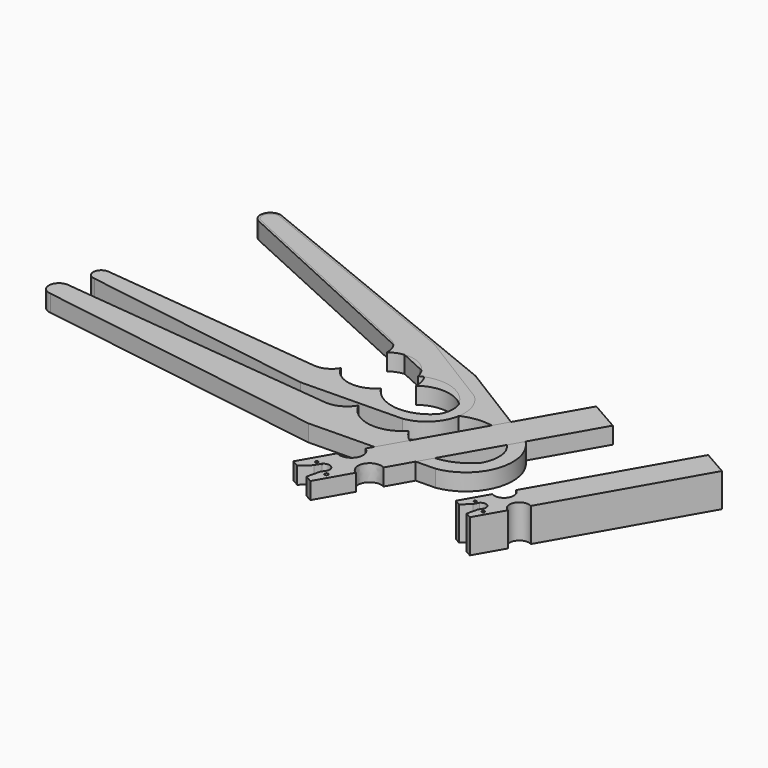
from build123d import *

# Parameters (mm, degrees)
EXTRUDE001_DEPTH = 5
SKETCH001_R      = 0.376184
SKETCH001_R_2    = 0.434762
EXTRUDE_DEPTH    = 10
EXTRUDE002_DEPTH = 5
EXTRUDE003_DEPTH = 5


with BuildPart() as extrude001:
    # Sketch → Extrude001 (new body)
    with BuildSketch(Plane.XY):
        with BuildLine():
            Line((-109.597702, 14.773314), (-26.475611, 5.977473))
            ThreePointArc((-26.475611, 5.977473), (-22.315419, 6.691359), (-19.245836, 9.588683))
            ThreePointArc((-19.245836, 9.588683), (-11.417045, 3.728369), (-2.153575, 6.86228))
            ThreePointArc((-2.153575, 6.86228), (8.987764, 0.018026), (21.108057, 4.924321))
            ThreePointArc((21.108057, 4.924321), (22.334293, 8.844617), (21.856391, 12.924321))
            ThreePointArc((21.856391, 12.924321), (13.070619, 20.600891), (1.441613, 19.659745))
            ThreePointArc((1.441613, 19.659745), (-5.154934, 27.098584), (-14.998553, 25.700758))
            ThreePointArc((-14.998553, 25.700758), (-16.220959, 30.179706), (-19.896863, 33.015721))
            Line((-95.278091, 67.530898), (-19.896863, 33.015721))
            ThreePointArc((-93.006126, 73.071233), (-96.742934, 71.367605), (-95.278091, 67.530898))
            Line((-7.306596, 38.175885), (-93.006126, 73.071233))
            Line((-7.306596, 38.175885), (22.025859, 20.040189))
            ThreePointArc((14.579966, -4.084797), (25.896694, 5.633965), (22.025859, 20.040189))
            Line((-22.736025, -4.727048), (14.579966, -4.084797))
            Line((-110.331933, 8.831639), (-22.736025, -4.727048))
            ThreePointArc((-109.597702, 14.773314), (-113.139046, 12.194726), (-110.331933, 8.831639))
        make_face()
    extrude(amount=EXTRUDE001_DEPTH)


with BuildPart() as extrude_body:
    # Sketch001 (on Extrude) → Extrude (new body)
    with BuildSketch(Plane.XY):
        with BuildLine():
            Line((18.785556, 33.365864), (26.305947, 29.064344))
            Line((26.305947, 29.064344), (2.608742, -12.365722))
            ThreePointArc((2.608742, -12.365722), (-1.331695, -13.502804), (-0.194613, -17.443241))
            Line((-0.194613, -17.443241), (-4.904631, -25.677814))
            Line((-4.904631, -25.677814), (-6.640704, -24.684813))
            Line((-5.889158, -21.514642), (-6.640704, -24.684813))
            Line((-5.889158, -21.514642), (-5.019301, -20.112555))
            ThreePointArc((-5.019301, -20.112555), (-5.752398, -18.272471), (-7.70587, -18.600018))
            Line((-8.504033, -20.044122), (-7.70587, -18.600018))
            Line((-8.504033, -20.044122), (-10.889342, -22.24369))
            Line((-12.625415, -21.25069), (-10.889342, -22.24369))
            Line((-8.091479, -13.323964), (-12.625415, -21.25069))
            ThreePointArc((-8.091479, -13.323964), (-4.108005, -12.348334), (-5.083616, -8.364855))
            Line((18.785556, 33.365864), (-5.083616, -8.364855))
        make_face()
        with Locations((-8.938312, -18.659267)):
            Circle(SKETCH001_R, mode=Mode.SUBTRACT)
        with Locations((-4.245621, -21.504513)):
            Circle(SKETCH001_R_2, mode=Mode.SUBTRACT)
    extrude(amount=EXTRUDE_DEPTH)


with BuildPart() as extrude_body_1:
    # Extrude placement: moved
    add(extrude_body.part.moved(Location((47, 0, 0))))


with BuildPart() as extrude002:
    # Clone2D → Extrude002 (new body)
    with BuildSketch(Plane(origin=(-18.793451, 14.045872, 0), x_dir=(1, 0, 0), z_dir=(0, 0, 1))):
        with BuildLine():
            add(Edge.make_bspline(
                [(-87.678162, 11.818651), (-21.180489, 4.781978)],
                knots=[0, 0, 83.586176, 83.586176], degree=1))
            add(Edge.make_bspline(
                [(-21.180489, 4.781978), (-17.328528, 4.304406), (-15.396669, 7.670947)],
                knots=[4.589037, 4.589037, 4.589037, 5.762223, 5.762223, 5.762223], degree=2, weights=[1, 0.832831, 1]))
            add(Edge.make_bspline(
                [(-15.396669, 7.670947), (-10.147025, -3.370403), (-1.72286, 5.489824)],
                knots=[3.585411, 3.585411, 3.585411, 5.52301, 5.52301, 5.52301], degree=2, weights=[1, 0.566289, 1]))
            add(Edge.make_bspline(
                [(-1.72286, 5.489824), (6.530321, -7.906343), (16.886445, 3.939457)],
                knots=[3.693756, 3.693756, 3.693756, 5.564783, 5.564783, 5.564783], degree=2, weights=[1, 0.593405, 1]))
            add(Edge.make_bspline(
                [(16.886445, 3.939457), (18.613892, 7.005869), (17.485113, 10.339457)],
                knots=[5.770154, 5.770154, 5.770154, 6.609675, 6.609675, 6.609675], degree=2, weights=[1, 0.913187, 1]))
            add(Edge.make_bspline(
                [(17.485113, 10.339457), (12.086995, 21.422686), (1.15329, 15.727796)],
                knots=[0.453236, 0.453236, 0.453236, 2.05099, 2.05099, 2.05099], degree=2, weights=[1, 0.697512, 1]))
            add(Edge.make_bspline(
                [(1.15329, 15.727796), (-1.769705, 28.085762), (-11.998842, 20.560607)],
                knots=[0.232259, 0.232259, 0.232259, 2.205056, 2.205056, 2.205056], degree=2, weights=[1, 0.551697, 1]))
            add(Edge.make_bspline(
                [(-11.998842, 20.560607), (-11.746567, 24.967542), (-15.91749, 26.412577)],
                knots=[6.226003, 6.226003, 6.226003, 7.520469, 7.520469, 7.520469], degree=2, weights=[1, 0.797755, 1]))
            add(Edge.make_bspline(
                [(-76.222473, 54.024718), (-15.91749, 26.412577)],
                knots=[0, 0, 82.90734, 82.90734], degree=1))
            add(Edge.make_bspline(
                [(-74.404901, 58.456986), (-76.539418, 59.178884), (-77.394347, 57.094084), (-78.249276, 55.009283), (-76.222473, 54.024718)],
                knots=[1.24467, 1.24467, 1.24467, 2.752429, 2.752429, 4.260188, 4.260188, 4.260188], degree=2, weights=[1, 0.729039, 1, 0.729039, 1]))
            add(Edge.make_bspline(
                [(-5.845277, 30.540708), (-74.404901, 58.456986)],
                knots=[0, 0, 92.531588, 92.531588], degree=1))
            add(Edge.make_bspline(
                [(-5.845277, 30.540708), (17.620687, 16.032152)],
                knots=[0, 0, 34.486176, 34.486176], degree=1))
            add(Edge.make_bspline(
                [(11.663972, -3.267838), (34.76885, 0.170343), (17.620687, 16.032152)],
                knots=[4.860113, 4.860113, 4.860113, 7.107532, 7.107532, 7.107532], degree=2, weights=[1, 0.43234, 1]))
            add(Edge.make_bspline(
                [(-18.18882, -3.781638), (11.663972, -3.267838)],
                knots=[0, 0, 37.321517, 37.321517], degree=1))
            add(Edge.make_bspline(
                [(-88.265546, 7.065311), (-18.18882, -3.781638)],
                knots=[0, 0, 88.639049, 88.639049], degree=1))
            add(Edge.make_bspline(
                [(-87.678162, 11.818651), (-90.19675, 12.300734), (-90.511237, 9.755781), (-90.825725, 7.210827), (-88.265546, 7.065311)],
                knots=[1.381674, 1.381674, 1.381674, 3.018643, 3.018643, 4.655612, 4.655612, 4.655612], degree=2, weights=[1, 0.683328, 1, 0.683328, 1]))
        make_face()
    extrude(amount=EXTRUDE002_DEPTH)


with BuildPart() as extrude003:
    # Clone2D001 → Extrude003 (new body)
    with BuildSketch(Plane(origin=(1.655907, 3.691765, 0), x_dir=(1, 0, 0), z_dir=(0, 0, 1))):
        with BuildLine():
            add(Edge.make_bspline(
                [(-9.709775, -15.988757), (-6.734315, -17.793453), (-4.929606, -14.818001), (-3.124896, -11.842549), (-6.10034, -10.037826)],
                knots=[4.167184, 4.167184, 4.167184, 5.737976, 5.737976, 7.308768, 7.308768, 7.308768], degree=2, weights=[1, 0.707108, 1, 0.707108, 1]))
            add(Edge.make_bspline(
                [(22.542667, 40.039037), (-6.10034, -10.037826)],
                knots=[0, 0, 48.074841, 48.074841], degree=1))
            add(Edge.make_bspline(
                [(22.542667, 40.039037), (31.567136, 34.877213)],
                knots=[0, 0, 8.66368, 8.66368], degree=1))
            add(Edge.make_bspline(
                [(31.567136, 34.877213), (3.130491, -14.838866)],
                knots=[0, 0, 47.728481, 47.728481], degree=1))
            add(Edge.make_bspline(
                [(3.130491, -14.838866), (0.083979, -13.156853), (-1.598034, -16.203364), (-3.280047, -19.249876), (-0.233536, -20.931889)],
                knots=[1.066334, 1.066334, 1.066334, 2.63713, 2.63713, 4.207926, 4.207926, 4.207926], degree=2, weights=[1, 0.707107, 1, 0.707107, 1]))
            add(Edge.make_bspline(
                [(-0.233536, -20.931889), (-5.885557, -30.813376)],
                knots=[0, 0, 9.486436, 9.486436], degree=1))
            add(Edge.make_bspline(
                [(-5.885557, -30.813376), (-7.968845, -29.621776)],
                knots=[0, 0, 2, 2], degree=1))
            add(Edge.make_bspline(
                [(-7.06699, -25.81757), (-7.968845, -29.621776)],
                knots=[0, 0, 3.258037, 3.258037], degree=1))
            add(Edge.make_bspline(
                [(-7.06699, -25.81757), (-6.023161, -24.135066)],
                knots=[0, 0, 1.65, 1.65], degree=1))
            add(Edge.make_bspline(
                [(-6.023161, -24.135066), (-5.572228, -22.676121), (-6.902878, -21.926966), (-8.233527, -21.177811), (-9.247044, -22.320022)],
                knots=[5.983418, 5.983418, 5.983418, 7.341213, 7.341213, 8.699008, 8.699008, 8.699008], degree=2, weights=[1, 0.778265, 1, 0.778265, 1]))
            add(Edge.make_bspline(
                [(-10.20484, -24.052946), (-9.247044, -22.320022)],
                knots=[0, 0, 1.65, 1.65], degree=1))
            add(Edge.make_bspline(
                [(-10.20484, -24.052946), (-13.06721, -26.692428)],
                knots=[0, 0, 3.244657, 3.244657], degree=1))
            add(Edge.make_bspline(
                [(-15.150498, -25.500827), (-13.06721, -26.692428)],
                knots=[0, 0, 2, 2], degree=1))
            add(Edge.make_bspline(
                [(-9.709775, -15.988757), (-15.150498, -25.500827)],
                knots=[0, 0, 9.131788, 9.131788], degree=1))
        make_face()
        with BuildLine():
            add(Edge.make_bspline(
                [(-10.274554, -22.39112), (-10.274554, -21.609237), (-10.951685, -22.000179), (-11.628816, -22.39112), (-10.951685, -22.782062), (-10.274554, -23.173004), (-10.274554, -22.39112)],
                knots=[0, 0, 0, 2.094395, 2.094395, 4.18879, 4.18879, 6.283185, 6.283185, 6.283185], degree=2, weights=[1, 0.5, 1, 0.5, 1, 0.5, 1]))
        make_face(mode=Mode.SUBTRACT)
        with BuildLine():
            add(Edge.make_bspline(
                [(-4.573031, -25.805416), (-4.573031, -24.90178), (-5.355602, -25.353598), (-6.138174, -25.805416), (-5.355602, -26.257234), (-4.573031, -26.709051), (-4.573031, -25.805416)],
                knots=[0, 0, 0, 2.094395, 2.094395, 4.18879, 4.18879, 6.283185, 6.283185, 6.283185], degree=2, weights=[1, 0.5, 1, 0.5, 1, 0.5, 1]))
        make_face(mode=Mode.SUBTRACT)
    extrude(amount=EXTRUDE003_DEPTH)


solid = Compound([extrude001.part, extrude_body_1.part, extrude002.part, extrude003.part])
